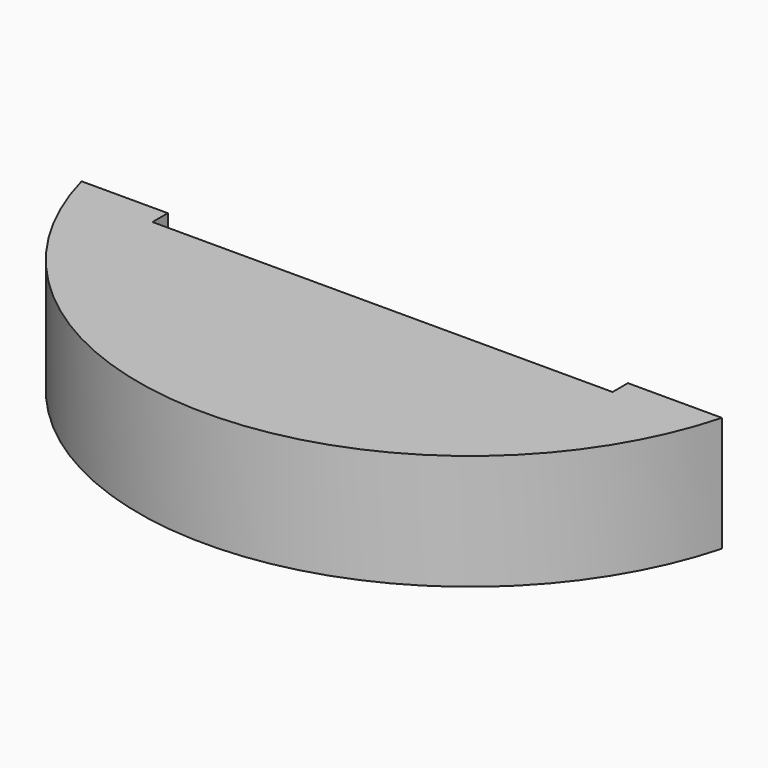
from build123d import *

# Parameters (mm, degrees)
PAD002_DEPTH   = 30
SKETCH002_W    = 119.834198
SKETCH002_H    = 56.27994
POCKET_DEPTH   = 5
SKETCH003_W    = 103.127247
SKETCH003_H    = 16.613194
PAD003_DEPTH   = 1
THICKNESS001_T = -3


with BuildPart() as part:
    # Sketch001 → Pad002 (new body)
    with BuildSketch(Plane.XY):
        with BuildLine():
            ThreePointArc((-68.184374, 10.831253), (15.204238, -53.178213), (98.592851, 10.831253))
            Line((-68.184374, 10.831253), (98.592851, 10.831253))
        make_face()
    extrude(amount=PAD002_DEPTH)

    # Sketch002 (on Face2 of Pad002) → Pocket (cut)
    with BuildSketch(Plane(origin=(0, 10.831253, 0), x_dir=(-1, 0, 0), z_dir=(0, 1, 0))):
        with Locations((-14.19677, 16.75429)):
            Rectangle(SKETCH002_W, SKETCH002_H)
    extrude(amount=-POCKET_DEPTH, mode=Mode.SUBTRACT)

    # Sketch003 (on Face8 of Pocket) → Pad003 (join)
    with BuildSketch(Plane(origin=(0, 5.831253, 0), x_dir=(-1, 0, 0), z_dir=(0, 1, 0))):
        with Locations((-16.664015, 14.938789)):
            Rectangle(SKETCH003_W, SKETCH003_H)
    extrude(amount=PAD003_DEPTH)

    # Thickness001
    thickness001_openings = [part.faces().sort_by_distance(p)[0] for p in [
        (16.664015, 6.831253, 14.938789),
    ]]
    offset(amount=THICKNESS001_T, openings=thickness001_openings)


solid = part.part
